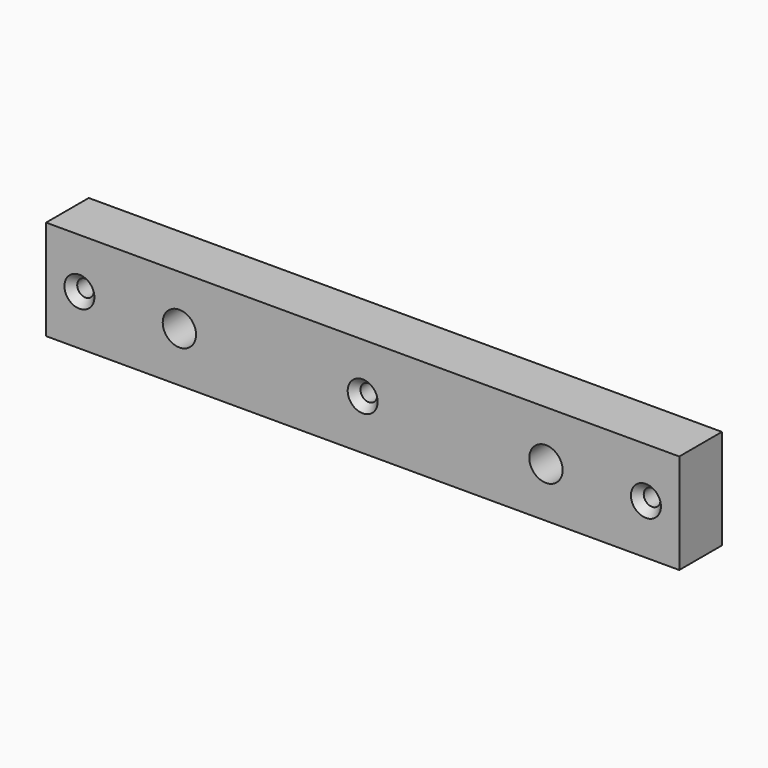
from build123d import *

# Parameters (mm, degrees)
F0_W           = 190
F0_H           = 30
F1_DEPTH       = 16
F3_D           = 5
F3_CSINK_D     = 9
F3_CSINK_ANGLE = 82
F4_D           = 10
F6_D           = 10


with BuildPart() as f1:
    # F0 (on Front) → F1 (new body)
    with BuildSketch(Plane.XZ):
        with Locations((95, -15)):
            Rectangle(F0_W, F0_H)
    extrude(amount=F1_DEPTH)

    # F3 (through all)
    with Locations(Plane.XZ.offset(16)):
        with Locations((10, -15), (95, -15), (180, -15), (180, -15)):
            CounterSinkHole(F3_D / 2, F3_CSINK_D / 2, counter_sink_angle=F3_CSINK_ANGLE)

    # F4 (through all)
    with Locations(Plane.XZ.offset(16)):
        with Locations((40, -15), (156, -52.788887)):
            Hole(F4_D / 2)

    # F6 (through all)
    with Locations(Plane.XZ.offset(16)):
        with Locations((150, -15)):
            Hole(F6_D / 2)


solid = f1.part
